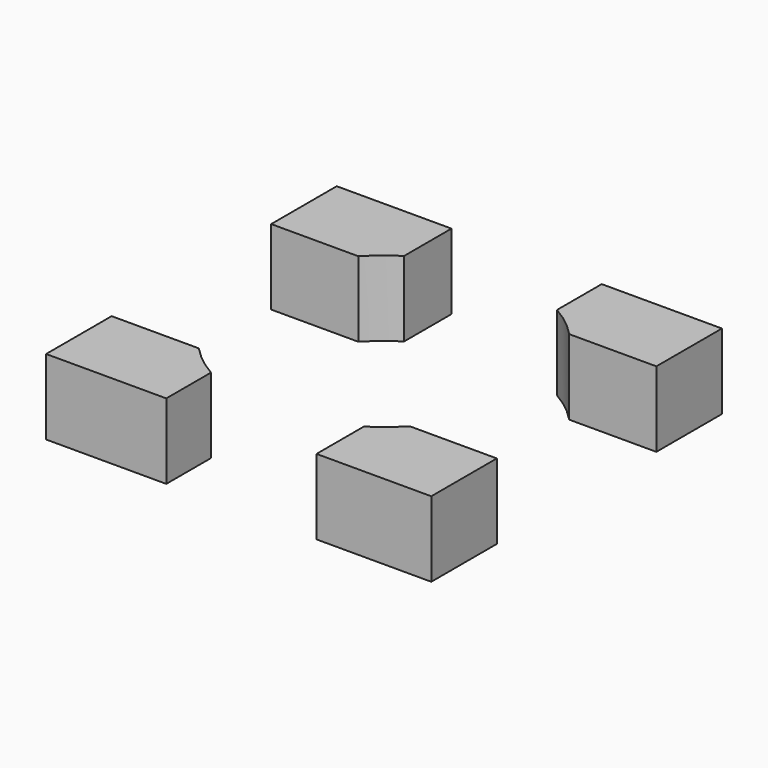
from build123d import *

# Parameters (mm, degrees)
F1_DEPTH = 7.4


with BuildPart() as f1:
    # F0 (on Top) → F1 (new body)
    with BuildSketch(Plane.XY):
        with BuildLine():
            ThreePointArc((-10.364721, 9.799883), (-9.077581, 11.002848), (-7.651964, 12.037965))
            Line((-7.651964, 12.037965), (-7.651964, 17.854581))
            Line((-7.651964, 17.854581), (-18.928541, 17.854581))
            Line((-18.928541, 17.854581), (-18.928541, 9.799883))
            Line((-18.928541, 9.799883), (-10.364721, 9.799883))
        make_face()
        with BuildLine():
            ThreePointArc((7.114984, 12.362934), (8.833308, 11.199902), (10.364721, 9.799883))
            Line((10.364721, 9.799883), (18.928541, 9.799883))
            Line((18.928541, 9.799883), (18.928541, 17.854581))
            Line((18.928541, 17.854581), (7.114984, 17.854581))
            Line((7.114984, 17.854581), (7.114984, 12.362934))
        make_face()
        with BuildLine():
            Line((18.928541, -9.799883), (10.364721, -9.799883))
            ThreePointArc((10.364721, -9.799883), (9.077581, -11.002848), (7.651964, -12.037965))
            Line((7.651964, -12.037965), (7.651964, -17.854581))
            Line((7.651964, -17.854581), (18.928541, -17.854581))
            Line((18.928541, -17.854581), (18.928541, -9.799883))
        make_face()
        with BuildLine():
            Line((-7.114984, -17.854581), (-7.114984, -12.362934))
            ThreePointArc((-7.114984, -12.362934), (-8.833308, -11.199902), (-10.364721, -9.799883))
            Line((-10.364721, -9.799883), (-18.928541, -9.799883))
            Line((-18.928541, -9.799883), (-18.928541, -17.854581))
            Line((-18.928541, -17.854581), (-7.114984, -17.854581))
        make_face()
    extrude(amount=F1_DEPTH)


solid = f1.part
